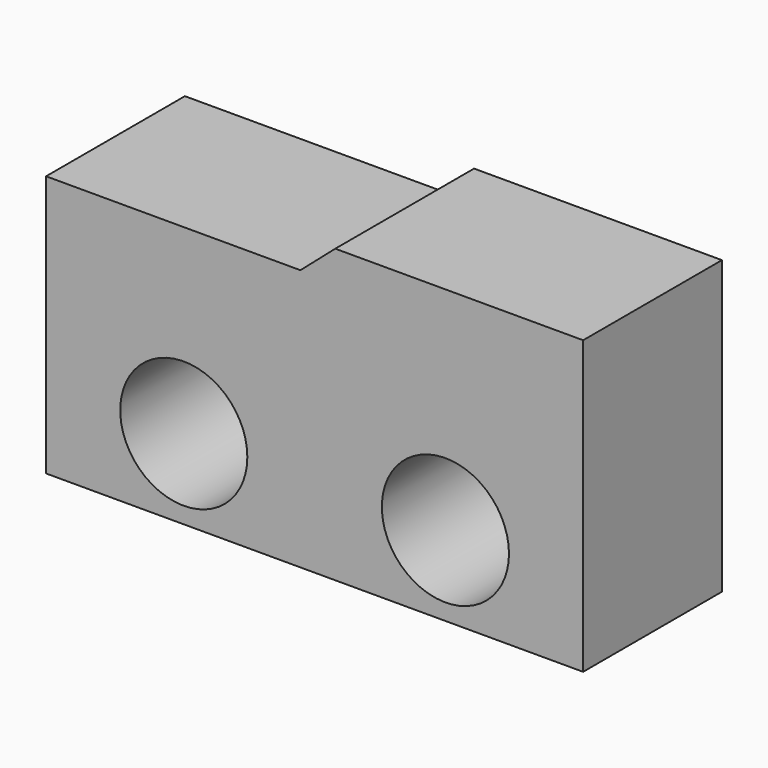
from build123d import *

# Parameters (mm, degrees)
F0_W     = 19.5
F0_H     = 10.6
F1_DEPTH = 6.3
F2_R     = 2.307824
F3_DEPTH = 25
F5_DEPTH = 25


with BuildPart() as f1:
    # F0 (on Front) → F1 (new body)
    with BuildSketch(Plane.XZ):
        with Locations((9.75, 5.3)):
            Rectangle(F0_W, F0_H)
    extrude(amount=F1_DEPTH)

    # F2 (on face) → F3 (cut)
    with BuildSketch(Plane.XZ.offset(6.3)):
        with Locations((5, 2.9)):
            Circle(F2_R)
        with Locations((14.5, 2.9)):
            Circle(F2_R)
    extrude(amount=-F3_DEPTH, mode=Mode.SUBTRACT)

    # F4 (on face) → F5 (cut)
    with BuildSketch(Plane.XZ.offset(6.3)):
        Polygon((10.5, 10.6), (0, 10.6), (0, 9.5), (9.2344, 9.5), align=None)
    extrude(amount=-F5_DEPTH, mode=Mode.SUBTRACT)


solid = f1.part
